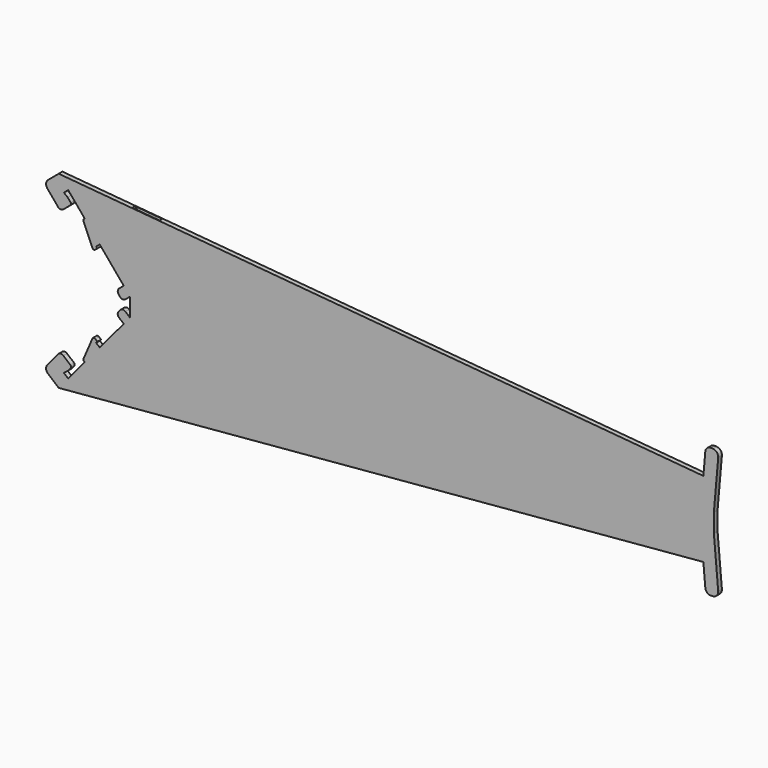
from build123d import *

# Parameters (mm, degrees)
F0_W     = 400.801692
F0_H     = 12.7
F1_DEPTH = 3.175
F2_W     = 13.335
F2_H     = 2.413
F3_DEPTH = 93.472


with BuildPart() as f1:
    # F0 (on Front) → F1 (new body)
    with BuildSketch(Plane.XZ):
        with BuildLine():
            ThreePointArc((-46.061787, -15.378393), (-47.408268, -17.964959), (-46.531395, -20.746043))
            Line((-46.531395, -20.746043), (-39.184333, -29.501931))
            ThreePointArc((-39.184333, -29.501931), (-37.459955, -30.399585), (-35.605899, -29.815003))
            Line((-35.605899, -29.815003), (-30.741517, -25.733302))
            ThreePointArc((-30.741517, -25.733302), (-30.29269, -24.871113), (-30.584981, -23.944085))
            Line((-30.584981, -23.944085), (-32.625832, -21.511894))
            Line((-32.625832, -21.511894), (-35.221416, -19.54518))
            Line((-35.221416, -19.54518), (-32.234491, -17.038852))
            Line((-32.234491, -17.038852), (-20.887361, -30.561835))
            Line((-20.887361, -30.561835), (-21.3738, -30.970005))
            ThreePointArc((-21.3738, -30.970005), (-21.793415, -31.650795), (-21.722945, -32.447403))
            Line((-21.722945, -32.447403), (-15.465856, -46.901779))
            ThreePointArc((-15.465856, -46.901779), (-14.603668, -47.350606), (-13.67664, -47.058315))
            Line((-13.67664, -47.058315), (-12.217325, -45.833805))
            Line((-12.217325, -45.833805), (-13.033665, -44.860929))
            Line((-13.033665, -44.860929), (-10.601474, -42.820078))
            Line((-10.601474, -42.820078), (5.888599, -62.472182))
            Line((5.888599, -62.472182), (2.678107, -65.166105))
            ThreePointArc((2.678107, -65.166105), (1.780453, -66.890482), (2.365035, -68.744538))
            Line((2.365035, -68.744538), (3.426277, -70.009278))
            ThreePointArc((3.426277, -70.009278), (5.150654, -70.906932), (7.00471, -70.32235))
            Line((7.00471, -70.32235), (10.215203, -67.628427))
            Line((10.215203, -67.628427), (411.016895, -67.628427))
            Line((411.016895, -67.628427), (413.996694, -33.569161))
            ThreePointArc((413.996694, -33.569161), (413.119822, -30.788076), (410.533256, -29.441595))
            Line((410.533256, -29.441595), (409.268089, -29.330908))
            ThreePointArc((409.268089, -29.330908), (406.487005, -30.20778), (405.140524, -32.794346))
            Line((405.140524, -32.794346), (403.81227, -47.976353))
            Line((403.81227, -47.976353), (-38.765213, -9.255841))
            Line((-38.765213, -9.255841), (-46.061787, -15.378393))
        make_face()
        with Locations((210.616049, -73.978427)):
            Rectangle(F0_W, F0_H)
        with BuildLine():
            Line((413.996694, -114.387694), (411.016895, -80.328427))
            Line((411.016895, -80.328427), (10.215203, -80.328427))
            Line((10.215203, -80.328427), (7.00471, -77.634504))
            ThreePointArc((7.00471, -77.634504), (5.150654, -77.049923), (3.426277, -77.947577))
            Line((3.426277, -77.947577), (2.365035, -79.212316))
            ThreePointArc((2.365035, -79.212316), (1.780453, -81.066372), (2.678107, -82.790749))
            Line((2.678107, -82.790749), (5.888599, -85.484672))
            Line((5.888599, -85.484672), (-10.601474, -105.136777))
            Line((-10.601474, -105.136777), (-13.033665, -103.095926))
            Line((-13.033665, -103.095926), (-12.217325, -102.123049))
            Line((-12.217325, -102.123049), (-13.67664, -100.898539))
            ThreePointArc((-13.67664, -100.898539), (-14.603668, -100.606248), (-15.465856, -101.055075))
            Line((-15.465856, -101.055075), (-21.722945, -115.509451))
            ThreePointArc((-21.722945, -115.509451), (-21.793415, -116.30606), (-21.3738, -116.98685))
            Line((-21.3738, -116.98685), (-20.887361, -117.39502))
            Line((-20.887361, -117.39502), (-32.234491, -130.918002))
            Line((-32.234491, -130.918002), (-35.221416, -128.411674))
            Line((-35.221416, -128.411674), (-32.625832, -126.44496))
            Line((-32.625832, -126.44496), (-30.584981, -124.012769))
            ThreePointArc((-30.584981, -124.012769), (-30.29269, -123.085741), (-30.741517, -122.223553))
            Line((-30.741517, -122.223553), (-35.605899, -118.141851))
            ThreePointArc((-35.605899, -118.141851), (-37.459955, -117.55727), (-39.184333, -118.454924))
            Line((-39.184333, -118.454924), (-46.531395, -127.210812))
            ThreePointArc((-46.531395, -127.210812), (-47.408268, -129.991896), (-46.061787, -132.578462))
            Line((-46.061787, -132.578462), (-38.765213, -138.701014))
            Line((-38.765213, -138.701014), (403.81227, -99.980501))
            Line((403.81227, -99.980501), (405.140524, -115.162508))
            ThreePointArc((405.140524, -115.162508), (406.487005, -117.749074), (409.268089, -118.625947))
            Line((409.268089, -118.625947), (410.533256, -118.515259))
            ThreePointArc((410.533256, -118.515259), (413.119822, -117.168778), (413.996694, -114.387694))
        make_face()
    extrude(amount=F1_DEPTH)

    # F2 (on face) → F3 (cut)
    with BuildSketch(Plane(origin=(-11.45924, 0, 13.656591), x_dir=(0.766044, 0, 0.642788), z_dir=(-0.642788, 0, 0.766044))):
        with Locations((6.6675, -1.5875)):
            Rectangle(F2_W, F2_H)
    extrude(amount=-F3_DEPTH, mode=Mode.SUBTRACT)


solid = f1.part
